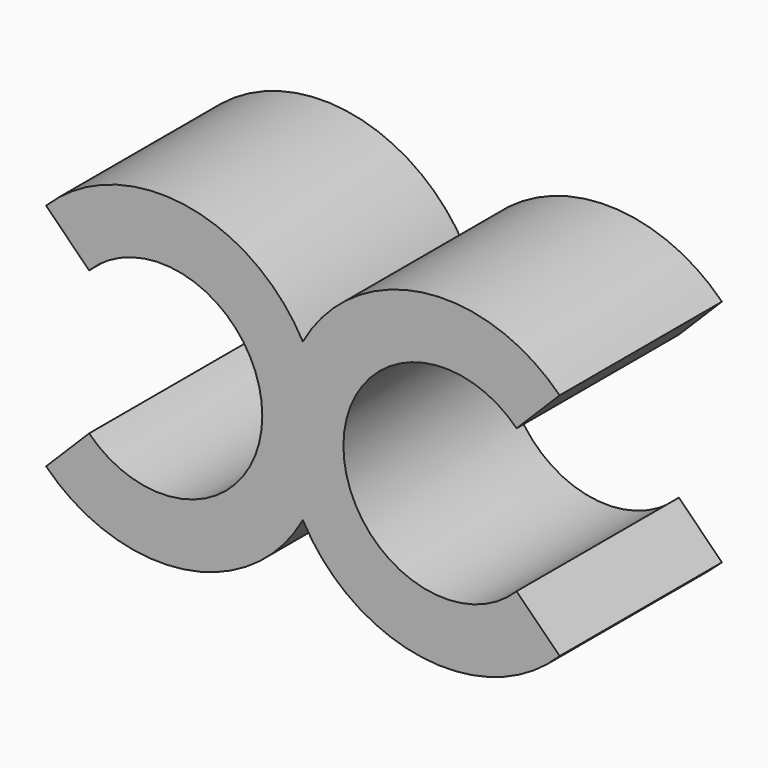
from build123d import *

# Parameters (mm, degrees)
F1_DEPTH = 10


with BuildPart() as f1:
    # F0 (on Front) → F1 (new body)
    with BuildSketch(Plane.XZ):
        with BuildLine():
            ThreePointArc((-10.535534, 3.535534), (-2, 0), (-10.535534, -3.535534))
            Line((-10.535534, -3.535534), (-12.656854, -5.656854))
            ThreePointArc((-12.656854, -5.656854), (-5.883506, -7.921707), (0, -3.872983))
            ThreePointArc((0, -3.872983), (5.883506, -7.921707), (12.656854, -5.656854))
            Line((12.656854, -5.656854), (10.535534, -3.535534))
            ThreePointArc((10.535534, -3.535534), (2, 0), (10.535534, 3.535534))
            Line((10.535534, 3.535534), (12.656854, 5.656854))
            ThreePointArc((12.656854, 5.656854), (5.883506, 7.921707), (0, 3.872983))
            ThreePointArc((0, 3.872983), (-5.883506, 7.921707), (-12.656854, 5.656854))
            Line((-12.656854, 5.656854), (-10.535534, 3.535534))
        make_face()
    extrude(amount=F1_DEPTH)


solid = f1.part
